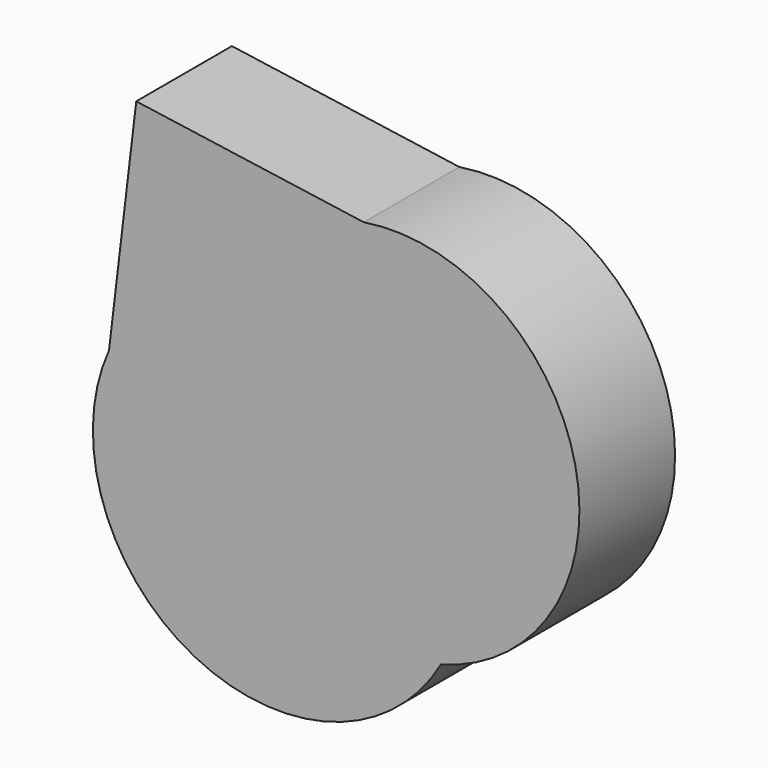
from build123d import *

# Parameters (mm, degrees)
F1_DEPTH = 27.686
F3_T     = -2.54


with BuildPart() as f1:
    # F0 (on Front) → F1 (new body)
    with BuildSketch(Plane.XZ):
        with BuildLine():
            Line((32.9105183482, -44.3405173719), (-37.6401729882, 47.4936179817))
            Line((-37.6401729882, 47.4936179817), (-43.9463816583, -5.3208619356))
            ThreePointArc((-43.9463816583, -5.3208619356), (-24.0622741562, -61.3574262782), (32.9105183482, -44.3405173719))
        make_face()
    extrude(amount=F1_DEPTH)

    # F2: F1 across face


with BuildPart() as f1_1:
    add(f1.part)
    add(f1.part.mirror(Plane(origin=(-2.36482732, -13.843, 1.5765503049), x_dir=(0, 1, 0), z_dir=(0.7930033869, 0, 0.6092172259))))

    # F3
    f3_openings = [f1_1.faces().sort_by_distance(p)[0] for p in [
        (4.890948, 0, -7.868117),
    ]]
    offset(amount=F3_T, openings=f3_openings, kind=Kind.INTERSECTION)


solid = f1_1.part
